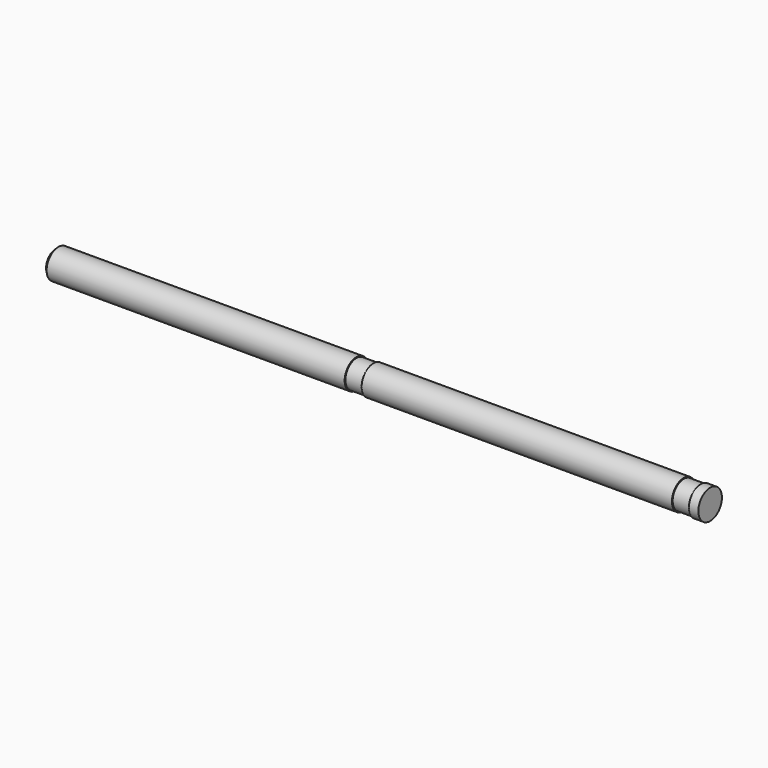
from build123d import *

# Parameters (mm, degrees)
F0_R     = 3.96875
F1_DEPTH = 176.276
F2_W     = 4.572
F2_H     = 1.702164
F4_SIZE2 = 0.762
F4_SIZE  = 0.762


with BuildPart() as f1:
    # F0 (on Right) → F1 (new body)
    with BuildSketch(Plane.YZ):
        Circle(F0_R)
    extrude(amount=F1_DEPTH)

    # F2 (on Front) → F3 (revolve, cut)
    with BuildSketch(Plane.XZ):
        with Locations((171.45, 4.572182)):
            Rectangle(F2_W, F2_H)
        with Locations((83.312, 4.572182)):
            Rectangle(F2_W, F2_H)
    revolve(axis=Axis((171.45, 0, 0), (-1, 0, 0)), mode=Mode.SUBTRACT)

    # F4
    f4_edges = [f1.edges().sort_by_distance(p)[0] for p in [
        (0, -3.96875, 0),
    ]]
    chamfer(f4_edges, length=F4_SIZE, length2=F4_SIZE2)


solid = f1.part
